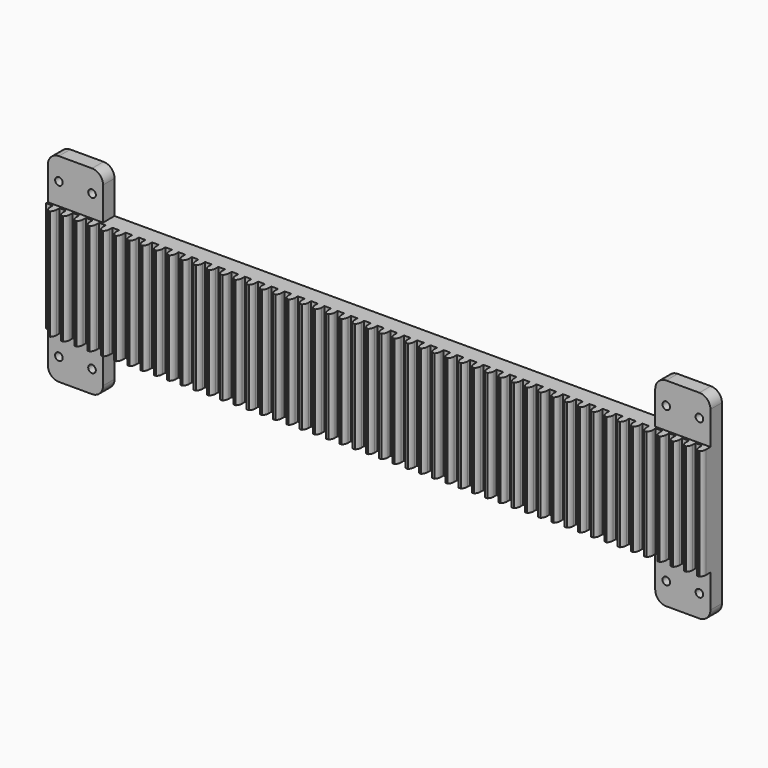
from build123d import *

# Parameters (mm, degrees)
F1_DEPTH = 19.05
F3_W     = 63.5
F3_H     = 50.8
F4_DEPTH = 2.54
F5_W     = 63.5
F5_H     = 50.8
F6_DEPTH = 2.54
F7_R     = 12.7
F9_DEPTH = 127
F11_D    = 8.7376


with BuildPart() as f1:
    # F0 (on Front) → F1 (new body)
    with BuildSketch(Plane.XZ):
        Polygon((0, 228.6), (0, 0), (63.5, 0), (63.5, 50.8), (698.5, 50.8), (698.5, 0), (762, 0), (762, 228.6), (698.5, 228.6), (698.5, 177.8), (63.5, 177.8), (63.5, 228.6), align=None)
    extrude(amount=F1_DEPTH)

    # F3 (on face) → F4 (cut)
    with BuildSketch(Plane.XZ.offset(19.05)):
        with Locations((31.75, 25.4)):
            Rectangle(F3_W, F3_H)
        Polygon((63.5, 228.6), (0, 228.6), (0, 177.8), (7.62, 177.8), (15.24, 177.8), (22.86, 177.8), (30.48, 177.8), (38.1, 177.8), (45.72, 177.8), (53.34, 177.8), (60.96, 177.8), (63.5, 177.8), align=None)
    extrude(amount=-F4_DEPTH, mode=Mode.SUBTRACT)

    # F5 (on face) → F6 (cut)
    with BuildSketch(Plane.XZ.offset(19.05)):
        with Locations((730.25, 203.2)):
            Rectangle(F5_W, F5_H)
        Polygon((762, 0), (762, 50.8), (701.04, 50.8), (698.5, 50.8), (698.5, 0), align=None)
    extrude(amount=-F6_DEPTH, mode=Mode.SUBTRACT)

    # F7
    f7_edges = [f1.edges().sort_by_distance(p)[0] for p in [
        (63.5, -8.255, 228.6),
        (0, -8.255, 228.6),
        (63.5, -8.255, 0),
        (0, -8.255, 0),
        (762, -8.255, 228.6),
        (698.5, -8.255, 228.6),
        (762, -8.255, 0),
        (698.5, -8.255, 0),
    ]]
    fillet(f7_edges, radius=F7_R)

    # F8 (on face) → F9 (join)
    with BuildSketch(Plane(origin=(0, 0, 50.8), x_dir=(1, 0, 0), z_dir=(0, 0, -1))):
        with BuildLine():
            Line((7.62, 21.393687), (7.62, 19.05))
            Line((7.62, 19.05), (15.24, 19.05))
            Line((15.24, 19.05), (15.24, 21.393687))
            Line((15.24, 21.393687), (15.24, 23.0124))
            ThreePointArc((15.24, 23.0124), (14.557493, 26.377139), (12.617857, 29.21))
            Line((12.617857, 29.21), (11.43, 29.21))
            Line((11.43, 29.21), (10.242143, 29.21))
            ThreePointArc((10.242143, 29.21), (8.302507, 26.377139), (7.62, 23.0124))
            Line((7.62, 23.0124), (7.62, 21.393687))
        make_face()
        with BuildLine():
            ThreePointArc((30.48, 23.0124), (29.797493, 26.377139), (27.857857, 29.21))
            Line((27.857857, 29.21), (25.482143, 29.21))
            ThreePointArc((25.482143, 29.21), (23.542507, 26.377139), (22.86, 23.0124))
            Line((22.86, 23.0124), (22.86, 19.05))
            Line((22.86, 19.05), (30.48, 19.05))
            Line((30.48, 19.05), (30.48, 23.0124))
        make_face()
        with BuildLine():
            ThreePointArc((45.72, 23.0124), (45.037493, 26.377139), (43.097857, 29.21))
            Line((43.097857, 29.21), (40.722143, 29.21))
            ThreePointArc((40.722143, 29.21), (38.782507, 26.377139), (38.1, 23.0124))
            Line((38.1, 23.0124), (38.1, 19.05))
            Line((38.1, 19.05), (45.72, 19.05))
            Line((45.72, 19.05), (45.72, 23.0124))
        make_face()
        with BuildLine():
            ThreePointArc((60.96, 23.0124), (60.277493, 26.377139), (58.337857, 29.21))
            Line((58.337857, 29.21), (55.962143, 29.21))
            ThreePointArc((55.962143, 29.21), (54.022507, 26.377139), (53.34, 23.0124))
            Line((53.34, 23.0124), (53.34, 19.05))
            Line((53.34, 19.05), (60.96, 19.05))
            Line((60.96, 19.05), (60.96, 23.0124))
        make_face()
        with BuildLine():
            ThreePointArc((76.2, 23.0124), (75.517493, 26.377139), (73.577857, 29.21))
            Line((73.577857, 29.21), (71.202143, 29.21))
            ThreePointArc((71.202143, 29.21), (69.262507, 26.377139), (68.58, 23.0124))
            Line((68.58, 23.0124), (68.58, 19.05))
            Line((68.58, 19.05), (76.2, 19.05))
            Line((76.2, 19.05), (76.2, 23.0124))
        make_face()
        with BuildLine():
            ThreePointArc((91.44, 23.0124), (90.757493, 26.377139), (88.817857, 29.21))
            Line((88.817857, 29.21), (86.442143, 29.21))
            ThreePointArc((86.442143, 29.21), (84.502507, 26.377139), (83.82, 23.0124))
            Line((83.82, 23.0124), (83.82, 19.05))
            Line((83.82, 19.05), (91.44, 19.05))
            Line((91.44, 19.05), (91.44, 23.0124))
        make_face()
        with BuildLine():
            ThreePointArc((106.68, 23.0124), (105.997493, 26.377139), (104.057857, 29.21))
            Line((104.057857, 29.21), (101.682143, 29.21))
            ThreePointArc((101.682143, 29.21), (99.742507, 26.377139), (99.06, 23.0124))
            Line((99.06, 23.0124), (99.06, 19.05))
            Line((99.06, 19.05), (106.68, 19.05))
            Line((106.68, 19.05), (106.68, 23.0124))
        make_face()
        with BuildLine():
            ThreePointArc((121.92, 23.0124), (121.237493, 26.377139), (119.297857, 29.21))
            Line((119.297857, 29.21), (116.922143, 29.21))
            ThreePointArc((116.922143, 29.21), (114.982507, 26.377139), (114.3, 23.0124))
            Line((114.3, 23.0124), (114.3, 19.05))
            Line((114.3, 19.05), (121.92, 19.05))
            Line((121.92, 19.05), (121.92, 23.0124))
        make_face()
        with BuildLine():
            ThreePointArc((137.16, 23.0124), (136.477493, 26.377139), (134.537857, 29.21))
            Line((134.537857, 29.21), (132.162143, 29.21))
            ThreePointArc((132.162143, 29.21), (130.222507, 26.377139), (129.54, 23.0124))
            Line((129.54, 23.0124), (129.54, 19.05))
            Line((129.54, 19.05), (137.16, 19.05))
            Line((137.16, 19.05), (137.16, 23.0124))
        make_face()
        with BuildLine():
            ThreePointArc((152.4, 23.0124), (151.717493, 26.377139), (149.777857, 29.21))
            Line((149.777857, 29.21), (147.402143, 29.21))
            ThreePointArc((147.402143, 29.21), (145.462507, 26.377139), (144.78, 23.0124))
            Line((144.78, 23.0124), (144.78, 19.05))
            Line((144.78, 19.05), (152.4, 19.05))
            Line((152.4, 19.05), (152.4, 23.0124))
        make_face()
        with BuildLine():
            ThreePointArc((167.64, 23.0124), (166.957493, 26.377139), (165.017857, 29.21))
            Line((165.017857, 29.21), (162.642143, 29.21))
            ThreePointArc((162.642143, 29.21), (160.702507, 26.377139), (160.02, 23.0124))
            Line((160.02, 23.0124), (160.02, 19.05))
            Line((160.02, 19.05), (167.64, 19.05))
            Line((167.64, 19.05), (167.64, 23.0124))
        make_face()
        with BuildLine():
            ThreePointArc((182.88, 23.0124), (182.197493, 26.377139), (180.257857, 29.21))
            Line((180.257857, 29.21), (177.882143, 29.21))
            ThreePointArc((177.882143, 29.21), (175.942507, 26.377139), (175.26, 23.0124))
            Line((175.26, 23.0124), (175.26, 19.05))
            Line((175.26, 19.05), (182.88, 19.05))
            Line((182.88, 19.05), (182.88, 23.0124))
        make_face()
        with BuildLine():
            ThreePointArc((198.12, 23.0124), (197.437493, 26.377139), (195.497857, 29.21))
            Line((195.497857, 29.21), (193.122143, 29.21))
            ThreePointArc((193.122143, 29.21), (191.182507, 26.377139), (190.5, 23.0124))
            Line((190.5, 23.0124), (190.5, 19.05))
            Line((190.5, 19.05), (198.12, 19.05))
            Line((198.12, 19.05), (198.12, 23.0124))
        make_face()
        with BuildLine():
            ThreePointArc((213.36, 23.0124), (212.677493, 26.377139), (210.737857, 29.21))
            Line((210.737857, 29.21), (208.362143, 29.21))
            ThreePointArc((208.362143, 29.21), (206.422507, 26.377139), (205.74, 23.0124))
            Line((205.74, 23.0124), (205.74, 19.05))
            Line((205.74, 19.05), (213.36, 19.05))
            Line((213.36, 19.05), (213.36, 23.0124))
        make_face()
        with BuildLine():
            ThreePointArc((228.6, 23.0124), (227.917493, 26.377139), (225.977857, 29.21))
            Line((225.977857, 29.21), (223.602143, 29.21))
            ThreePointArc((223.602143, 29.21), (221.662507, 26.377139), (220.98, 23.0124))
            Line((220.98, 23.0124), (220.98, 19.05))
            Line((220.98, 19.05), (228.6, 19.05))
            Line((228.6, 19.05), (228.6, 23.0124))
        make_face()
        with BuildLine():
            ThreePointArc((243.84, 23.0124), (243.157493, 26.377139), (241.217857, 29.21))
            Line((241.217857, 29.21), (238.842143, 29.21))
            ThreePointArc((238.842143, 29.21), (236.902507, 26.377139), (236.22, 23.0124))
            Line((236.22, 23.0124), (236.22, 19.05))
            Line((236.22, 19.05), (243.84, 19.05))
            Line((243.84, 19.05), (243.84, 23.0124))
        make_face()
        with BuildLine():
            ThreePointArc((259.08, 23.0124), (258.397493, 26.377139), (256.457857, 29.21))
            Line((256.457857, 29.21), (254.082143, 29.21))
            ThreePointArc((254.082143, 29.21), (252.142507, 26.377139), (251.46, 23.0124))
            Line((251.46, 23.0124), (251.46, 19.05))
            Line((251.46, 19.05), (259.08, 19.05))
            Line((259.08, 19.05), (259.08, 23.0124))
        make_face()
        with BuildLine():
            ThreePointArc((274.32, 23.0124), (273.637493, 26.377139), (271.697857, 29.21))
            Line((271.697857, 29.21), (269.322143, 29.21))
            ThreePointArc((269.322143, 29.21), (267.382507, 26.377139), (266.7, 23.0124))
            Line((266.7, 23.0124), (266.7, 19.05))
            Line((266.7, 19.05), (274.32, 19.05))
            Line((274.32, 19.05), (274.32, 23.0124))
        make_face()
        with BuildLine():
            ThreePointArc((289.56, 23.0124), (288.877493, 26.377139), (286.937857, 29.21))
            Line((286.937857, 29.21), (284.562143, 29.21))
            ThreePointArc((284.562143, 29.21), (282.622507, 26.377139), (281.94, 23.0124))
            Line((281.94, 23.0124), (281.94, 19.05))
            Line((281.94, 19.05), (289.56, 19.05))
            Line((289.56, 19.05), (289.56, 23.0124))
        make_face()
        with BuildLine():
            ThreePointArc((304.8, 23.0124), (304.117493, 26.377139), (302.177857, 29.21))
            Line((302.177857, 29.21), (299.802143, 29.21))
            ThreePointArc((299.802143, 29.21), (297.862507, 26.377139), (297.18, 23.0124))
            Line((297.18, 23.0124), (297.18, 19.05))
            Line((297.18, 19.05), (304.8, 19.05))
            Line((304.8, 19.05), (304.8, 23.0124))
        make_face()
        with BuildLine():
            ThreePointArc((320.04, 23.0124), (319.357493, 26.377139), (317.417857, 29.21))
            Line((317.417857, 29.21), (315.042143, 29.21))
            ThreePointArc((315.042143, 29.21), (313.102507, 26.377139), (312.42, 23.0124))
            Line((312.42, 23.0124), (312.42, 19.05))
            Line((312.42, 19.05), (320.04, 19.05))
            Line((320.04, 19.05), (320.04, 23.0124))
        make_face()
        with BuildLine():
            ThreePointArc((335.28, 23.0124), (334.597493, 26.377139), (332.657857, 29.21))
            Line((332.657857, 29.21), (330.282143, 29.21))
            ThreePointArc((330.282143, 29.21), (328.342507, 26.377139), (327.66, 23.0124))
            Line((327.66, 23.0124), (327.66, 19.05))
            Line((327.66, 19.05), (335.28, 19.05))
            Line((335.28, 19.05), (335.28, 23.0124))
        make_face()
        with BuildLine():
            ThreePointArc((350.52, 23.0124), (349.837493, 26.377139), (347.897857, 29.21))
            Line((347.897857, 29.21), (345.522143, 29.21))
            ThreePointArc((345.522143, 29.21), (343.582507, 26.377139), (342.9, 23.0124))
            Line((342.9, 23.0124), (342.9, 19.05))
            Line((342.9, 19.05), (350.52, 19.05))
            Line((350.52, 19.05), (350.52, 23.0124))
        make_face()
        with BuildLine():
            ThreePointArc((365.76, 23.0124), (365.077493, 26.377139), (363.137857, 29.21))
            Line((363.137857, 29.21), (360.762143, 29.21))
            ThreePointArc((360.762143, 29.21), (358.822507, 26.377139), (358.14, 23.0124))
            Line((358.14, 23.0124), (358.14, 19.05))
            Line((358.14, 19.05), (365.76, 19.05))
            Line((365.76, 19.05), (365.76, 23.0124))
        make_face()
        with BuildLine():
            ThreePointArc((381, 23.0124), (380.317493, 26.377139), (378.377857, 29.21))
            Line((378.377857, 29.21), (376.002143, 29.21))
            ThreePointArc((376.002143, 29.21), (374.062507, 26.377139), (373.38, 23.0124))
            Line((373.38, 23.0124), (373.38, 19.05))
            Line((373.38, 19.05), (381, 19.05))
            Line((381, 19.05), (381, 23.0124))
        make_face()
        with BuildLine():
            ThreePointArc((396.24, 23.0124), (395.557493, 26.377139), (393.617857, 29.21))
            Line((393.617857, 29.21), (391.242143, 29.21))
            ThreePointArc((391.242143, 29.21), (389.302507, 26.377139), (388.62, 23.0124))
            Line((388.62, 23.0124), (388.62, 19.05))
            Line((388.62, 19.05), (396.24, 19.05))
            Line((396.24, 19.05), (396.24, 23.0124))
        make_face()
        with BuildLine():
            ThreePointArc((411.48, 23.0124), (410.797493, 26.377139), (408.857857, 29.21))
            Line((408.857857, 29.21), (406.482143, 29.21))
            ThreePointArc((406.482143, 29.21), (404.542507, 26.377139), (403.86, 23.0124))
            Line((403.86, 23.0124), (403.86, 19.05))
            Line((403.86, 19.05), (411.48, 19.05))
            Line((411.48, 19.05), (411.48, 23.0124))
        make_face()
        with BuildLine():
            ThreePointArc((426.72, 23.0124), (426.037493, 26.377139), (424.097857, 29.21))
            Line((424.097857, 29.21), (421.722143, 29.21))
            ThreePointArc((421.722143, 29.21), (419.782507, 26.377139), (419.1, 23.0124))
            Line((419.1, 23.0124), (419.1, 19.05))
            Line((419.1, 19.05), (426.72, 19.05))
            Line((426.72, 19.05), (426.72, 23.0124))
        make_face()
        with BuildLine():
            ThreePointArc((441.96, 23.0124), (441.277493, 26.377139), (439.337857, 29.21))
            Line((439.337857, 29.21), (436.962143, 29.21))
            ThreePointArc((436.962143, 29.21), (435.022507, 26.377139), (434.34, 23.0124))
            Line((434.34, 23.0124), (434.34, 19.05))
            Line((434.34, 19.05), (441.96, 19.05))
            Line((441.96, 19.05), (441.96, 23.0124))
        make_face()
        with BuildLine():
            ThreePointArc((457.2, 23.0124), (456.517493, 26.377139), (454.577857, 29.21))
            Line((454.577857, 29.21), (452.202143, 29.21))
            ThreePointArc((452.202143, 29.21), (450.262507, 26.377139), (449.58, 23.0124))
            Line((449.58, 23.0124), (449.58, 19.05))
            Line((449.58, 19.05), (457.2, 19.05))
            Line((457.2, 19.05), (457.2, 23.0124))
        make_face()
        with BuildLine():
            ThreePointArc((472.44, 23.0124), (471.757493, 26.377139), (469.817857, 29.21))
            Line((469.817857, 29.21), (467.442143, 29.21))
            ThreePointArc((467.442143, 29.21), (465.502507, 26.377139), (464.82, 23.0124))
            Line((464.82, 23.0124), (464.82, 19.05))
            Line((464.82, 19.05), (472.44, 19.05))
            Line((472.44, 19.05), (472.44, 23.0124))
        make_face()
        with BuildLine():
            ThreePointArc((487.68, 23.0124), (486.997493, 26.377139), (485.057857, 29.21))
            Line((485.057857, 29.21), (482.682143, 29.21))
            ThreePointArc((482.682143, 29.21), (480.742507, 26.377139), (480.06, 23.0124))
            Line((480.06, 23.0124), (480.06, 19.05))
            Line((480.06, 19.05), (487.68, 19.05))
            Line((487.68, 19.05), (487.68, 23.0124))
        make_face()
        with BuildLine():
            ThreePointArc((502.92, 23.0124), (502.237493, 26.377139), (500.297857, 29.21))
            Line((500.297857, 29.21), (497.922143, 29.21))
            ThreePointArc((497.922143, 29.21), (495.982507, 26.377139), (495.3, 23.0124))
            Line((495.3, 23.0124), (495.3, 19.05))
            Line((495.3, 19.05), (502.92, 19.05))
            Line((502.92, 19.05), (502.92, 23.0124))
        make_face()
        with BuildLine():
            ThreePointArc((518.16, 23.0124), (517.477493, 26.377139), (515.537857, 29.21))
            Line((515.537857, 29.21), (513.162143, 29.21))
            ThreePointArc((513.162143, 29.21), (511.222507, 26.377139), (510.54, 23.0124))
            Line((510.54, 23.0124), (510.54, 19.05))
            Line((510.54, 19.05), (518.16, 19.05))
            Line((518.16, 19.05), (518.16, 23.0124))
        make_face()
        with BuildLine():
            ThreePointArc((533.4, 23.0124), (532.717493, 26.377139), (530.777857, 29.21))
            Line((530.777857, 29.21), (528.402143, 29.21))
            ThreePointArc((528.402143, 29.21), (526.462507, 26.377139), (525.78, 23.0124))
            Line((525.78, 23.0124), (525.78, 19.05))
            Line((525.78, 19.05), (533.4, 19.05))
            Line((533.4, 19.05), (533.4, 23.0124))
        make_face()
        with BuildLine():
            ThreePointArc((548.64, 23.0124), (547.957493, 26.377139), (546.017857, 29.21))
            Line((546.017857, 29.21), (543.642143, 29.21))
            ThreePointArc((543.642143, 29.21), (541.702507, 26.377139), (541.02, 23.0124))
            Line((541.02, 23.0124), (541.02, 19.05))
            Line((541.02, 19.05), (548.64, 19.05))
            Line((548.64, 19.05), (548.64, 23.0124))
        make_face()
        with BuildLine():
            ThreePointArc((563.88, 23.0124), (563.197493, 26.377139), (561.257857, 29.21))
            Line((561.257857, 29.21), (558.882143, 29.21))
            ThreePointArc((558.882143, 29.21), (556.942507, 26.377139), (556.26, 23.0124))
            Line((556.26, 23.0124), (556.26, 19.05))
            Line((556.26, 19.05), (563.88, 19.05))
            Line((563.88, 19.05), (563.88, 23.0124))
        make_face()
        with BuildLine():
            ThreePointArc((579.12, 23.0124), (578.437493, 26.377139), (576.497857, 29.21))
            Line((576.497857, 29.21), (574.122143, 29.21))
            ThreePointArc((574.122143, 29.21), (572.182507, 26.377139), (571.5, 23.0124))
            Line((571.5, 23.0124), (571.5, 19.05))
            Line((571.5, 19.05), (579.12, 19.05))
            Line((579.12, 19.05), (579.12, 23.0124))
        make_face()
        with BuildLine():
            ThreePointArc((594.36, 23.0124), (593.677493, 26.377139), (591.737857, 29.21))
            Line((591.737857, 29.21), (589.362143, 29.21))
            ThreePointArc((589.362143, 29.21), (587.422507, 26.377139), (586.74, 23.0124))
            Line((586.74, 23.0124), (586.74, 19.05))
            Line((586.74, 19.05), (594.36, 19.05))
            Line((594.36, 19.05), (594.36, 23.0124))
        make_face()
        with BuildLine():
            ThreePointArc((609.6, 23.0124), (608.917493, 26.377139), (606.977857, 29.21))
            Line((606.977857, 29.21), (604.602143, 29.21))
            ThreePointArc((604.602143, 29.21), (602.662507, 26.377139), (601.98, 23.0124))
            Line((601.98, 23.0124), (601.98, 19.05))
            Line((601.98, 19.05), (609.6, 19.05))
            Line((609.6, 19.05), (609.6, 23.0124))
        make_face()
        with BuildLine():
            ThreePointArc((624.84, 23.0124), (624.157493, 26.377139), (622.217857, 29.21))
            Line((622.217857, 29.21), (619.842143, 29.21))
            ThreePointArc((619.842143, 29.21), (617.902507, 26.377139), (617.22, 23.0124))
            Line((617.22, 23.0124), (617.22, 19.05))
            Line((617.22, 19.05), (624.84, 19.05))
            Line((624.84, 19.05), (624.84, 23.0124))
        make_face()
        with BuildLine():
            ThreePointArc((640.08, 23.0124), (639.397493, 26.377139), (637.457857, 29.21))
            Line((637.457857, 29.21), (635.082143, 29.21))
            ThreePointArc((635.082143, 29.21), (633.142507, 26.377139), (632.46, 23.0124))
            Line((632.46, 23.0124), (632.46, 19.05))
            Line((632.46, 19.05), (640.08, 19.05))
            Line((640.08, 19.05), (640.08, 23.0124))
        make_face()
        with BuildLine():
            ThreePointArc((655.32, 23.0124), (654.637493, 26.377139), (652.697857, 29.21))
            Line((652.697857, 29.21), (650.322143, 29.21))
            ThreePointArc((650.322143, 29.21), (648.382507, 26.377139), (647.7, 23.0124))
            Line((647.7, 23.0124), (647.7, 19.05))
            Line((647.7, 19.05), (655.32, 19.05))
            Line((655.32, 19.05), (655.32, 23.0124))
        make_face()
        with BuildLine():
            ThreePointArc((670.56, 23.0124), (669.877493, 26.377139), (667.937857, 29.21))
            Line((667.937857, 29.21), (665.562143, 29.21))
            ThreePointArc((665.562143, 29.21), (663.622507, 26.377139), (662.94, 23.0124))
            Line((662.94, 23.0124), (662.94, 19.05))
            Line((662.94, 19.05), (670.56, 19.05))
            Line((670.56, 19.05), (670.56, 23.0124))
        make_face()
        with BuildLine():
            ThreePointArc((685.8, 23.0124), (685.117493, 26.377139), (683.177857, 29.21))
            Line((683.177857, 29.21), (680.802143, 29.21))
            ThreePointArc((680.802143, 29.21), (678.862507, 26.377139), (678.18, 23.0124))
            Line((678.18, 23.0124), (678.18, 19.05))
            Line((678.18, 19.05), (685.8, 19.05))
            Line((685.8, 19.05), (685.8, 23.0124))
        make_face()
        with BuildLine():
            ThreePointArc((701.04, 23.0124), (700.357493, 26.377139), (698.417857, 29.21))
            Line((698.417857, 29.21), (696.042143, 29.21))
            ThreePointArc((696.042143, 29.21), (694.102507, 26.377139), (693.42, 23.0124))
            Line((693.42, 23.0124), (693.42, 19.05))
            Line((693.42, 19.05), (701.04, 19.05))
            Line((701.04, 19.05), (701.04, 23.0124))
        make_face()
        with BuildLine():
            ThreePointArc((716.28, 23.0124), (715.597493, 26.377139), (713.657857, 29.21))
            Line((713.657857, 29.21), (711.282143, 29.21))
            ThreePointArc((711.282143, 29.21), (709.342507, 26.377139), (708.66, 23.0124))
            Line((708.66, 23.0124), (708.66, 19.05))
            Line((708.66, 19.05), (716.28, 19.05))
            Line((716.28, 19.05), (716.28, 23.0124))
        make_face()
        with BuildLine():
            ThreePointArc((731.52, 23.0124), (730.837493, 26.377139), (728.897857, 29.21))
            Line((728.897857, 29.21), (726.522143, 29.21))
            ThreePointArc((726.522143, 29.21), (724.582507, 26.377139), (723.9, 23.0124))
            Line((723.9, 23.0124), (723.9, 19.05))
            Line((723.9, 19.05), (731.52, 19.05))
            Line((731.52, 19.05), (731.52, 23.0124))
        make_face()
        with BuildLine():
            ThreePointArc((746.76, 23.0124), (746.077493, 26.377139), (744.137857, 29.21))
            Line((744.137857, 29.21), (741.762143, 29.21))
            ThreePointArc((741.762143, 29.21), (739.822507, 26.377139), (739.14, 23.0124))
            Line((739.14, 23.0124), (739.14, 19.05))
            Line((739.14, 19.05), (746.76, 19.05))
            Line((746.76, 19.05), (746.76, 23.0124))
        make_face()
        with BuildLine():
            ThreePointArc((762, 23.0124), (761.317493, 26.377139), (759.377857, 29.21))
            Line((759.377857, 29.21), (757.002143, 29.21))
            ThreePointArc((757.002143, 29.21), (755.062507, 26.377139), (754.38, 23.0124))
            Line((754.38, 23.0124), (754.38, 19.05))
            Line((754.38, 19.05), (762, 19.05))
            Line((762, 19.05), (762, 23.0124))
        make_face()
    extrude(amount=-F9_DEPTH)

    # F11 (through all)
    with Locations(Plane.XZ.offset(19.05)):
        with Locations((12.7, 203.065093), (50.8, 203.065093), (12.7, 25.534907), (50.8, 25.534907), (711.2, 203.065093), (749.3, 203.065093), (749.3, 25.534907), (711.2, 25.534907)):
            Hole(F11_D / 2)


solid = f1.part
